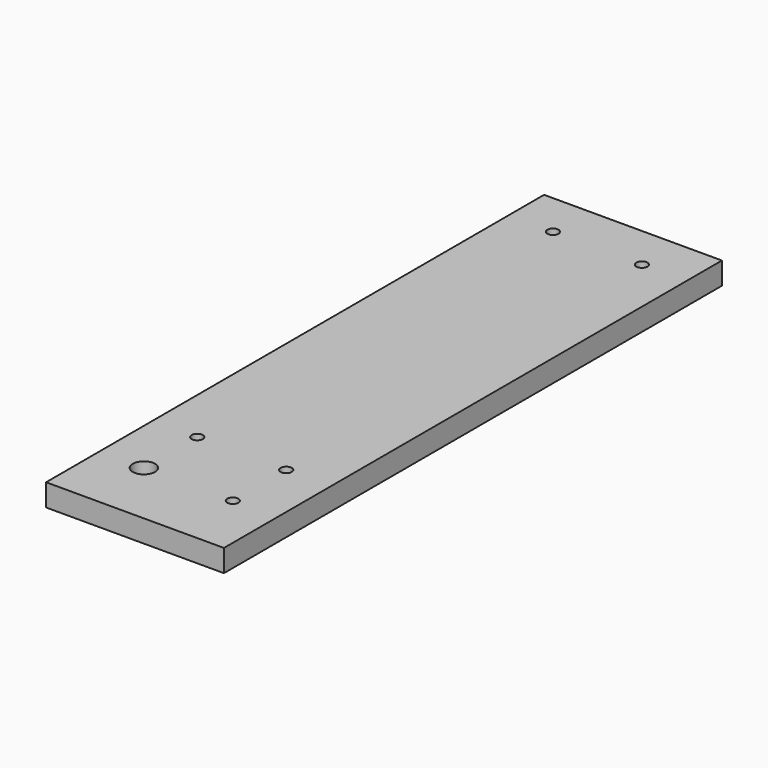
from build123d import *

# Parameters (mm, degrees)
F0_W     = 101.6
F0_H     = 355.6
F0_R     = 6.35
F0_R_2   = 3.175
F1_DEPTH = 12.7
F2_R     = 3.175
F3_DEPTH = 12.7


with BuildPart() as f1:
    # F0 (on Top) → F1 (new body)
    with BuildSketch(Plane.XY):
        with Locations((2.360951, 102.65373)):
            Rectangle(F0_W, F0_H)
        with Locations((-23.039049, -37.04627)):
            Circle(F0_R, mode=Mode.SUBTRACT)
        with Locations((-23.039049, 1.05373)):
            Circle(F0_R_2, mode=Mode.SUBTRACT)
        with Locations((27.760951, -37.04627)):
            Circle(F0_R_2, mode=Mode.SUBTRACT)
        with Locations((27.760951, 1.05373)):
            Circle(F0_R_2, mode=Mode.SUBTRACT)
        with Locations((-23.039049, 255.05373)):
            Circle(F0_R_2, mode=Mode.SUBTRACT)
        with Locations((27.760951, 255.05373)):
            Circle(F0_R_2, mode=Mode.SUBTRACT)
    extrude(amount=F1_DEPTH)

    # F2 (on face) → F3 (cut)
    with BuildSketch(Plane(origin=(0, 280.45373, 0), x_dir=(-1, 0, 0), z_dir=(0, 1, 0))):
        with Locations((-27.760951, 6.35)):
            Circle(F2_R)
        with Locations((-2.360951, 6.35)):
            Circle(F2_R)
        with Locations((23.039049, 6.35)):
            Circle(F2_R)
    extrude(amount=-F3_DEPTH, mode=Mode.SUBTRACT)


solid = f1.part
